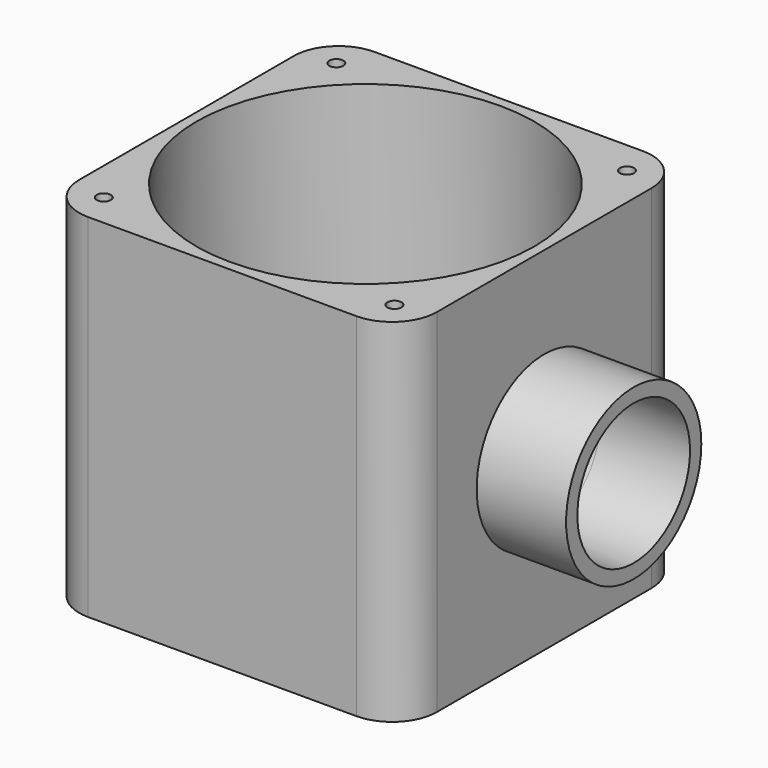
from build123d import *

# Parameters (mm, degrees)
F0_W      = 101.6
F0_H      = 101.6
F0_R      = 48
F1_DEPTH  = 50
F2_R      = 20
F3_DEPTH  = 50.8
F4_R      = 48
F5_DEPTH  = 50
F6_R      = 22.5
F7_DEPTH  = 100.0010001
F8_R      = 24
F8_R_2    = 20
F9_DEPTH  = 25.4
F10_R     = 12.7
F12_D     = 4
F12_DEPTH = 15.6876
F12_TIP   = 1.2017212381
F14_D     = 4
F14_DEPTH = 15.7
F14_TIP   = 1.2017212381


with BuildPart() as f1:
    # F0 (on Top) → F1 (new body, symmetric)
    with BuildSketch(Plane.XY):
        Rectangle(F0_W, F0_H)
        Circle(F0_R, mode=Mode.SUBTRACT)
        Circle(F0_R)
    extrude(amount=F1_DEPTH, both=True)

    # F2 (on face) → F3 (cut)
    with BuildSketch(Plane.YZ.offset(50.8)):
        Circle(F2_R)
    extrude(amount=-F3_DEPTH, mode=Mode.SUBTRACT)

    # F4 (on face) → F5 (cut)
    with BuildSketch(Plane.XY.offset(50)):
        Circle(F4_R)
    extrude(amount=-F5_DEPTH, mode=Mode.SUBTRACT)

    # F6 (on face) → F7 (cut, through all)
    with BuildSketch(Plane(origin=(0, 0, -50), x_dir=(1, 0, 0), z_dir=(0, 0, -1))):
        Circle(F6_R)
    extrude(amount=-F7_DEPTH, mode=Mode.SUBTRACT)

    # F8 (on face) → F9 (join)
    with BuildSketch(Plane.YZ.offset(50.8)):
        Circle(F8_R)
        Circle(F8_R_2, mode=Mode.SUBTRACT)
    extrude(amount=F9_DEPTH)

    # F10
    f10_edges = [f1.edges().sort_by_distance(p)[0] for p in [
        (50.8, -50.8, 0),
        (-50.8, -50.8, 0),
        (50.8, 50.8, 0),
        (-50.8, 50.8, 0),
    ]]
    fillet(f10_edges, radius=F10_R)

    # F12
    with Locations(Plane.XY.offset(50)):
        with Locations((-41.275, 41.275), (41.275, 41.275), (41.275, -41.275), (-41.275, -41.275)):
            Hole(F12_D / 2, depth=F12_DEPTH)
            with Locations((0, 0, -(F12_DEPTH + F12_TIP / 2))):  # 118° drill point
                Cone(0, F12_D / 2, F12_TIP, mode=Mode.SUBTRACT)

    # F14
    with Locations(Plane(origin=(0, 0, -50), x_dir=(1, 0, 0), z_dir=(0, 0, -1))):
        with Locations((-41.275, 41.275), (41.275, 41.275), (-41.275, -41.275), (41.275, -41.275)):
            Hole(F14_D / 2, depth=F14_DEPTH)
            with Locations((0, 0, -(F14_DEPTH + F14_TIP / 2))):  # 118° drill point
                Cone(0, F14_D / 2, F14_TIP, mode=Mode.SUBTRACT)


solid = f1.part
